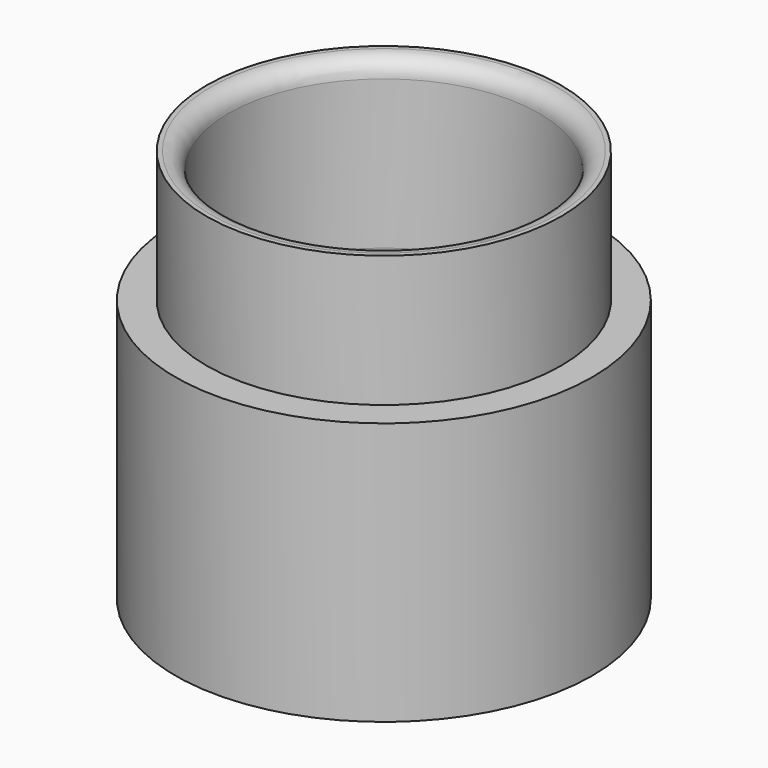
from build123d import *

# Parameters (mm, degrees)
F0_R     = 20.25
F0_R_2   = 17.75
F1_DEPTH = 45
F0_R_3   = 23.8
F2_DEPTH = 30
F3_R     = 21.3
F4_DEPTH = 24
F5_R     = 2


with BuildPart() as f1:
    # F0 (on Top) → F1 (new body)
    with BuildSketch(Plane.XY):
        Circle(F0_R)
        Circle(F0_R_2, mode=Mode.SUBTRACT)
    extrude(amount=F1_DEPTH)

    # F0 (on Top) → F2 (join)
    with BuildSketch(Plane.XY):
        Circle(F0_R_3)
        Circle(F0_R, mode=Mode.SUBTRACT)
    extrude(amount=F2_DEPTH)

    # F3 (on Top) → F4 (cut)
    with BuildSketch(Plane.XY):
        Circle(F3_R)
    extrude(amount=F4_DEPTH, mode=Mode.SUBTRACT)

    # F5
    f5_edges = [f1.edges().sort_by_distance(p)[0] for p in [
        (-17.75, 0, 24),
        (-21.3, 0, 0),
        (-17.75, 0, 45),
    ]]
    fillet(f5_edges, radius=F5_R)


solid = f1.part
